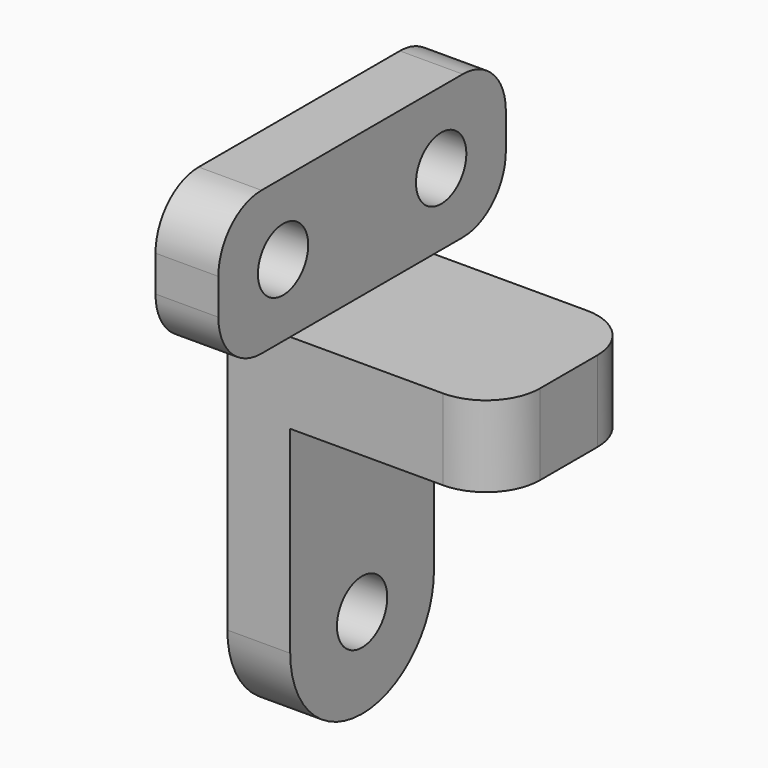
from build123d import *

# Parameters (mm, degrees)
SKETCH023_R  = 1.75
PAD024_DEPTH = 40
PAD025_DEPTH = 70
FILLET011_R  = 3


with BuildPart() as pad024:
    # Sketch023 → Pad024 (new body)
    with BuildSketch(Plane(origin=(-50, 0, 0), x_dir=(0, -1, 0), z_dir=(-1, 0, 0))):
        with BuildLine():
            ThreePointArc((-5, 18), (1e-05, 13), (5, 18.000021))
            Line((5, 33.500021), (5, 18.000021))
            Line((10, 33.500021), (5, 33.500021))
            Line((10, 41.5), (10, 33.500021))
            Line((-10, 41.5), (10, 41.5))
            Line((-10, 33.5), (-10, 41.5))
            Line((-5, 33.5), (-10, 33.5))
            Line((-5, 18), (-5, 33.5))
        make_face()
        with Locations((-5.5, 37.5)):
            Circle(SKETCH023_R, mode=Mode.SUBTRACT)
        with Locations((5.5, 37.5)):
            Circle(SKETCH023_R, mode=Mode.SUBTRACT)
        with Locations((0, 18)):
            Circle(SKETCH023_R, mode=Mode.SUBTRACT)
    extrude(amount=-PAD024_DEPTH)


with BuildPart() as support:
    # Sketch022 → Pad025 (new body)
    with BuildSketch(Plane.XZ.offset(40)):
        Polygon((-31.5, 12), (-35, 12), (-35, 53.5), (-31.5, 53.5), (-31.5, 33.5), (-20, 33.5), (-20, 29), (-31.5, 29), align=None)
    extrude(amount=-PAD025_DEPTH)

    # Common001: intersect Pad024
    add(pad024.part, mode=Mode.INTERSECT)

    # Fillet011
    fillet011_edges = [support.edges().sort_by_distance(p)[0] for p in [
        (-20, -5, 31.25),
        (-20, 5, 31.25),
        (-33.25, -10, 33.500021),
        (-33.25, 10, 33.5),
        (-33.25, -10, 41.5),
        (-33.25, 10, 41.5),
    ]]
    fillet(fillet011_edges, radius=FILLET011_R)


solid = support.part
